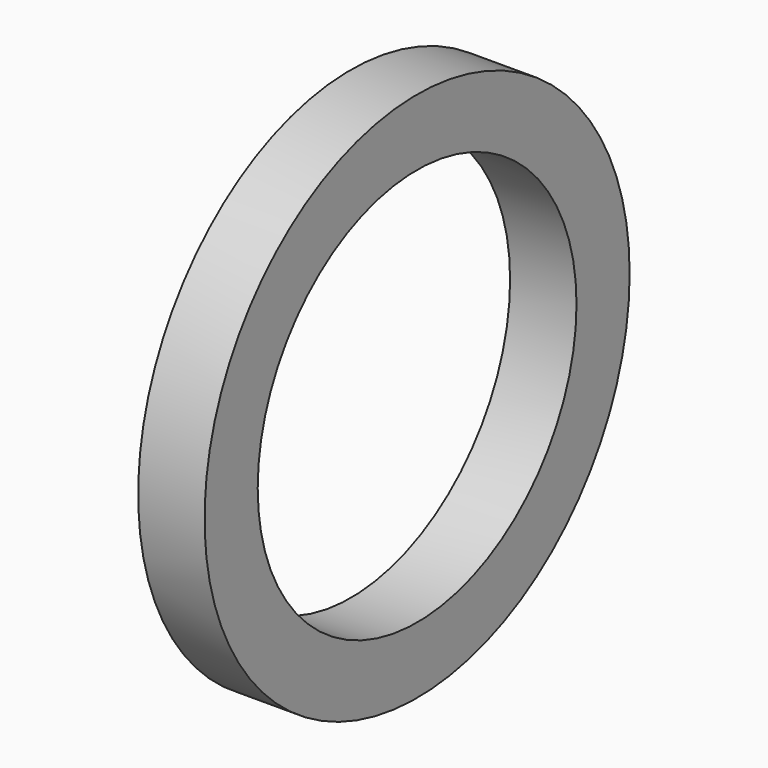
from build123d import *

# Parameters (mm, degrees)
F0_R     = 12.7
F0_R_2   = 9.525
F1_DEPTH = 3.175


with BuildPart() as f1:
    # F0 (on Right) → F1 (new body)
    with BuildSketch(Plane.YZ):
        with Locations((0, -0.719572)):
            Circle(F0_R)
        with Locations((0, -0.719572)):
            Circle(F0_R_2, mode=Mode.SUBTRACT)
    extrude(amount=-F1_DEPTH)


solid = f1.part
